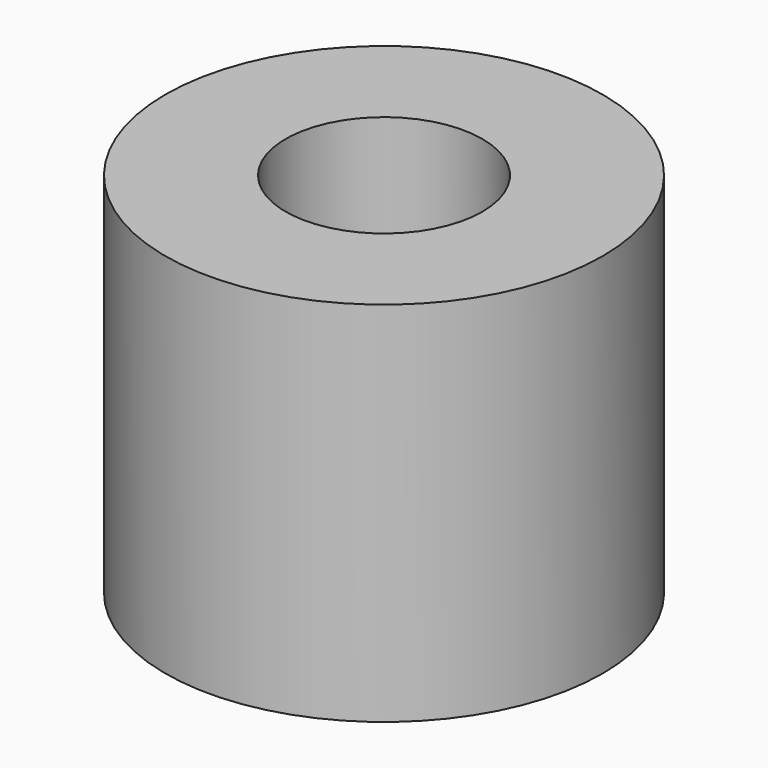
from build123d import *

# Parameters (mm, degrees)
SKETCH_R     = 5
PAD_DEPTH    = 8.4
SKETCH001_R  = 2.25
POCKET_DEPTH = 8.401


with BuildPart() as part:
    # Sketch → Pad (new body)
    with BuildSketch(Plane.XY):
        Circle(SKETCH_R)
    extrude(amount=PAD_DEPTH)

    # Sketch001 → Pocket (cut, through all)
    with BuildSketch(Plane.XY.offset(8.4)):
        Circle(SKETCH001_R)
    extrude(amount=-POCKET_DEPTH, mode=Mode.SUBTRACT)


solid = part.part
